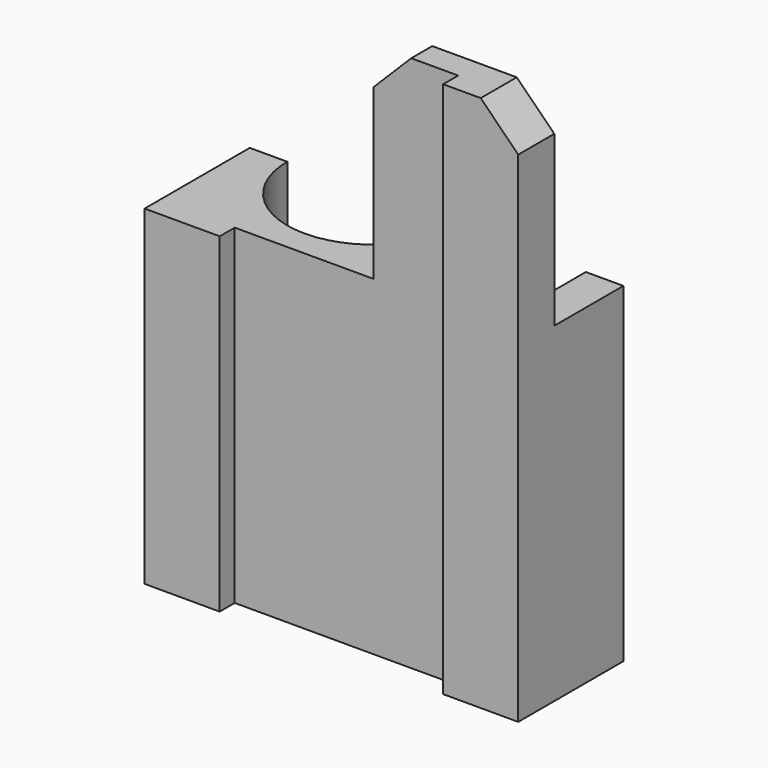
from build123d import *

# Parameters (mm, degrees)
PAD_DEPTH    = 88
PAD001_DEPTH = 55
CHAMFER_SIZE = 10


with BuildPart() as part:
    # Sketch → Pad (new body)
    with BuildSketch(Plane.XY):
        with BuildLine():
            ThreePointArc((-47, 0), (-24, -23), (-1, 0))
            Line((-1, 0), (0, 0))
            Line((0, 0), (0, -15))
            Line((0, -15), (32.5, -15))
            Line((32.5, -15), (32.5, 0))
            Line((32.5, 0), (42.5, 0))
            Line((42.5, 0), (42.5, -35))
            Line((22.5, -35), (42.5, -35))
            Line((22.5, -30), (22.5, -35))
            Line((-37, -30), (22.5, -30))
            Line((-37, -35), (-37, -30))
            Line((-57, -35), (-37, -35))
            Line((-57, -35), (-57, 0))
            Line((-57, 0), (-47, 0))
        make_face()
    extrude(amount=PAD_DEPTH)

    # Sketch001 (on Face16 of Pad) → Pad001 (join)
    with BuildSketch(Plane.XY.offset(88)):
        Polygon((0, -23), (42.5, -23), (42.5, -35), (22.5, -35), (22.5, -30), (0, -30), align=None)
    extrude(amount=PAD001_DEPTH)

    # Chamfer
    chamfer_edges = [part.edges().sort_by_distance(p)[0] for p in [
        (0, -26.5, 143),
        (42.5, -29, 143),
    ]]
    chamfer(chamfer_edges, length=CHAMFER_SIZE)


solid = part.part
